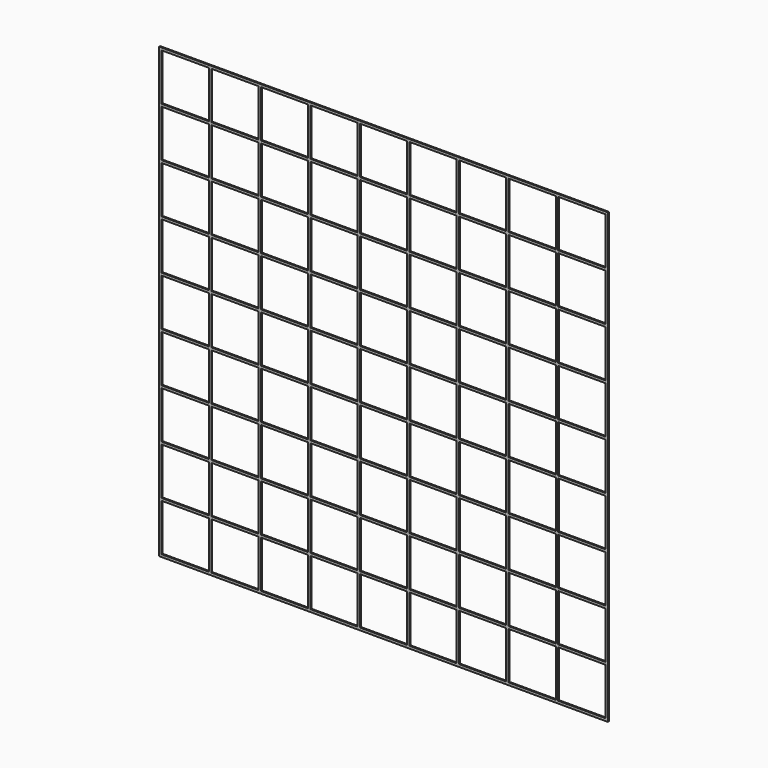
from build123d import *

# Parameters (mm, degrees)
F0_W     = 919.48
F0_H     = 919.48
F1_DEPTH = 2.54
F2_W     = 96.52
F2_H     = 96.52
F3_DEPTH = 2.54


with BuildPart() as f1:
    # F0 (on Front) → F1 (new body)
    with BuildSketch(Plane.XZ):
        with Locations((459.74, 459.74)):
            Rectangle(F0_W, F0_H)
    extrude(amount=F1_DEPTH)

    # F2 (on face) → F3 (cut)
    with BuildSketch(Plane.XZ):
        with Locations((53.34, 866.14)):
            Rectangle(F2_W, F2_H)
        with Locations((53.34, 764.54)):
            Rectangle(F2_W, F2_H)
        with Locations((53.34, 662.94)):
            Rectangle(F2_W, F2_H)
        with Locations((53.34, 561.34)):
            Rectangle(F2_W, F2_H)
        with Locations((53.34, 459.74)):
            Rectangle(F2_W, F2_H)
        with Locations((53.34, 358.14)):
            Rectangle(F2_W, F2_H)
        with Locations((53.34, 256.54)):
            Rectangle(F2_W, F2_H)
        with Locations((53.34, 154.94)):
            Rectangle(F2_W, F2_H)
        with Locations((53.34, 53.34)):
            Rectangle(F2_W, F2_H)
        with Locations((154.94, 866.14)):
            Rectangle(F2_W, F2_H)
        with Locations((154.94, 764.54)):
            Rectangle(F2_W, F2_H)
        with Locations((154.94, 662.94)):
            Rectangle(F2_W, F2_H)
        with Locations((154.94, 561.34)):
            Rectangle(F2_W, F2_H)
        with Locations((154.94, 459.74)):
            Rectangle(F2_W, F2_H)
        with Locations((154.94, 358.14)):
            Rectangle(F2_W, F2_H)
        with Locations((154.94, 256.54)):
            Rectangle(F2_W, F2_H)
        with Locations((154.94, 154.94)):
            Rectangle(F2_W, F2_H)
        with Locations((154.94, 53.34)):
            Rectangle(F2_W, F2_H)
        with Locations((256.54, 866.14)):
            Rectangle(F2_W, F2_H)
        with Locations((256.54, 764.54)):
            Rectangle(F2_W, F2_H)
        with Locations((256.54, 662.94)):
            Rectangle(F2_W, F2_H)
        with Locations((256.54, 561.34)):
            Rectangle(F2_W, F2_H)
        with Locations((256.54, 459.74)):
            Rectangle(F2_W, F2_H)
        with Locations((256.54, 358.14)):
            Rectangle(F2_W, F2_H)
        with Locations((256.54, 256.54)):
            Rectangle(F2_W, F2_H)
        with Locations((256.54, 154.94)):
            Rectangle(F2_W, F2_H)
        with Locations((256.54, 53.34)):
            Rectangle(F2_W, F2_H)
        with Locations((358.14, 866.14)):
            Rectangle(F2_W, F2_H)
        with Locations((358.14, 764.54)):
            Rectangle(F2_W, F2_H)
        with Locations((358.14, 662.94)):
            Rectangle(F2_W, F2_H)
        with Locations((358.14, 561.34)):
            Rectangle(F2_W, F2_H)
        with Locations((358.14, 459.74)):
            Rectangle(F2_W, F2_H)
        with Locations((358.14, 358.14)):
            Rectangle(F2_W, F2_H)
        with Locations((358.14, 256.54)):
            Rectangle(F2_W, F2_H)
        with Locations((358.14, 154.94)):
            Rectangle(F2_W, F2_H)
        with Locations((358.14, 53.34)):
            Rectangle(F2_W, F2_H)
        with Locations((459.74, 866.14)):
            Rectangle(F2_W, F2_H)
        with Locations((459.74, 764.54)):
            Rectangle(F2_W, F2_H)
        with Locations((459.74, 662.94)):
            Rectangle(F2_W, F2_H)
        with Locations((459.74, 561.34)):
            Rectangle(F2_W, F2_H)
        with Locations((459.74, 459.74)):
            Rectangle(F2_W, F2_H)
        with Locations((459.74, 358.14)):
            Rectangle(F2_W, F2_H)
        with Locations((459.74, 256.54)):
            Rectangle(F2_W, F2_H)
        with Locations((459.74, 154.94)):
            Rectangle(F2_W, F2_H)
        with Locations((459.74, 53.34)):
            Rectangle(F2_W, F2_H)
        with Locations((561.34, 866.14)):
            Rectangle(F2_W, F2_H)
        with Locations((561.34, 764.54)):
            Rectangle(F2_W, F2_H)
        with Locations((561.34, 662.94)):
            Rectangle(F2_W, F2_H)
        with Locations((561.34, 561.34)):
            Rectangle(F2_W, F2_H)
        with Locations((561.34, 459.74)):
            Rectangle(F2_W, F2_H)
        with Locations((561.34, 358.14)):
            Rectangle(F2_W, F2_H)
        with Locations((561.34, 256.54)):
            Rectangle(F2_W, F2_H)
        with Locations((561.34, 154.94)):
            Rectangle(F2_W, F2_H)
        with Locations((561.34, 53.34)):
            Rectangle(F2_W, F2_H)
        with Locations((662.94, 866.14)):
            Rectangle(F2_W, F2_H)
        with Locations((662.94, 764.54)):
            Rectangle(F2_W, F2_H)
        with Locations((662.94, 662.94)):
            Rectangle(F2_W, F2_H)
        with Locations((662.94, 561.34)):
            Rectangle(F2_W, F2_H)
        with Locations((662.94, 459.74)):
            Rectangle(F2_W, F2_H)
        with Locations((662.94, 358.14)):
            Rectangle(F2_W, F2_H)
        with Locations((662.94, 256.54)):
            Rectangle(F2_W, F2_H)
        with Locations((662.94, 154.94)):
            Rectangle(F2_W, F2_H)
        with Locations((662.94, 53.34)):
            Rectangle(F2_W, F2_H)
        with Locations((764.54, 866.14)):
            Rectangle(F2_W, F2_H)
        with Locations((764.54, 764.54)):
            Rectangle(F2_W, F2_H)
        with Locations((764.54, 662.94)):
            Rectangle(F2_W, F2_H)
        with Locations((764.54, 561.34)):
            Rectangle(F2_W, F2_H)
        with Locations((764.54, 459.74)):
            Rectangle(F2_W, F2_H)
        with Locations((764.54, 358.14)):
            Rectangle(F2_W, F2_H)
        with Locations((764.54, 256.54)):
            Rectangle(F2_W, F2_H)
        with Locations((764.54, 154.94)):
            Rectangle(F2_W, F2_H)
        with Locations((764.54, 53.34)):
            Rectangle(F2_W, F2_H)
        with Locations((866.14, 866.14)):
            Rectangle(F2_W, F2_H)
        with Locations((866.14, 764.54)):
            Rectangle(F2_W, F2_H)
        with Locations((866.14, 662.94)):
            Rectangle(F2_W, F2_H)
        with Locations((866.14, 561.34)):
            Rectangle(F2_W, F2_H)
        with Locations((866.14, 459.74)):
            Rectangle(F2_W, F2_H)
        with Locations((866.14, 358.14)):
            Rectangle(F2_W, F2_H)
        with Locations((866.14, 256.54)):
            Rectangle(F2_W, F2_H)
        with Locations((866.14, 154.94)):
            Rectangle(F2_W, F2_H)
        with Locations((866.14, 53.34)):
            Rectangle(F2_W, F2_H)
    extrude(amount=F3_DEPTH, mode=Mode.SUBTRACT)


solid = f1.part
